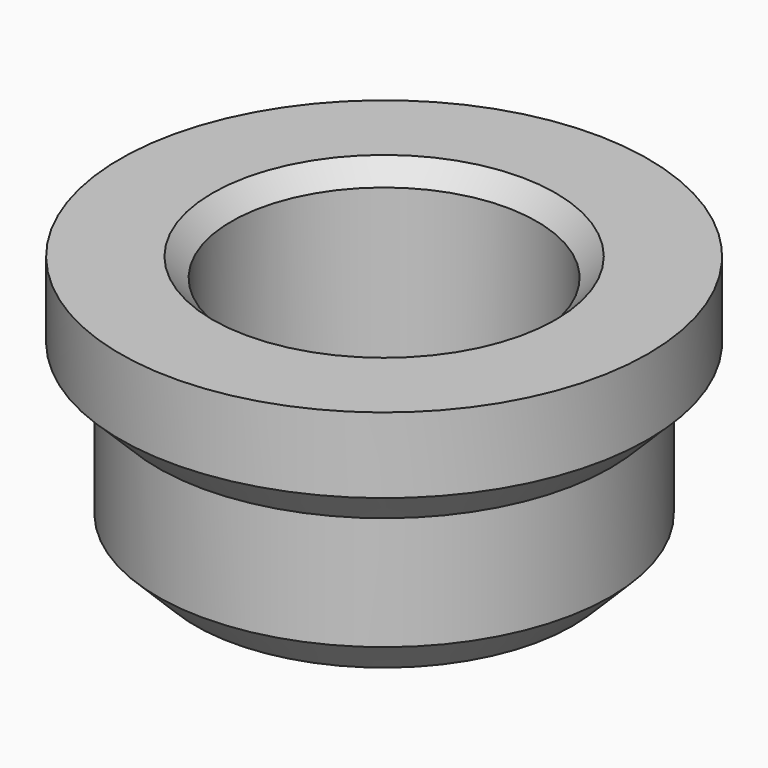
from build123d import *

# Parameters (mm, degrees)
CYLINDER001_R     = 4.05
CYLINDER001_DEPTH = 28
CYLINDER_R        = 6
CYLINDER_DEPTH    = 5
SKETCH_R          = 7
PAD_DEPTH         = 2
CHAMFER_SIZE      = 0.99
CHAMFER001_SIZE   = 1
CHAMFER002_SIZE   = 0.5


with BuildPart() as cilindro001:
    # Cylinder001 → Cylinder001 (new body)
    with BuildSketch(Plane.XY.offset(-1)):
        Circle(CYLINDER001_R)
    extrude(amount=CYLINDER001_DEPTH)


with BuildPart() as chamfer002:
    # Cylinder → Cylinder (new body)
    with BuildSketch(Plane.XY):
        Circle(CYLINDER_R)
    extrude(amount=CYLINDER_DEPTH)

    # Sketch → Pad (new body)
    with BuildSketch(Plane.XY.offset(5)):
        Circle(SKETCH_R)
    extrude(amount=PAD_DEPTH)

    # Cut: cut Cilindro001
    add(cilindro001.part, mode=Mode.SUBTRACT)

    # Chamfer
    chamfer_edges = [chamfer002.edges().sort_by_distance(p)[0] for p in [
        (-6, 0, 5),
    ]]
    chamfer(chamfer_edges, length=CHAMFER_SIZE)

    # Chamfer001
    chamfer001_edges = [chamfer002.edges().sort_by_distance(p)[0] for p in [
        (-6, 0, 0),
    ]]
    chamfer(chamfer001_edges, length=CHAMFER001_SIZE)

    # Chamfer002
    chamfer002_edges = [chamfer002.edges().sort_by_distance(p)[0] for p in [
        (-4.05, 0, 7),
    ]]
    chamfer(chamfer002_edges, length=CHAMFER002_SIZE)


solid = chamfer002.part
